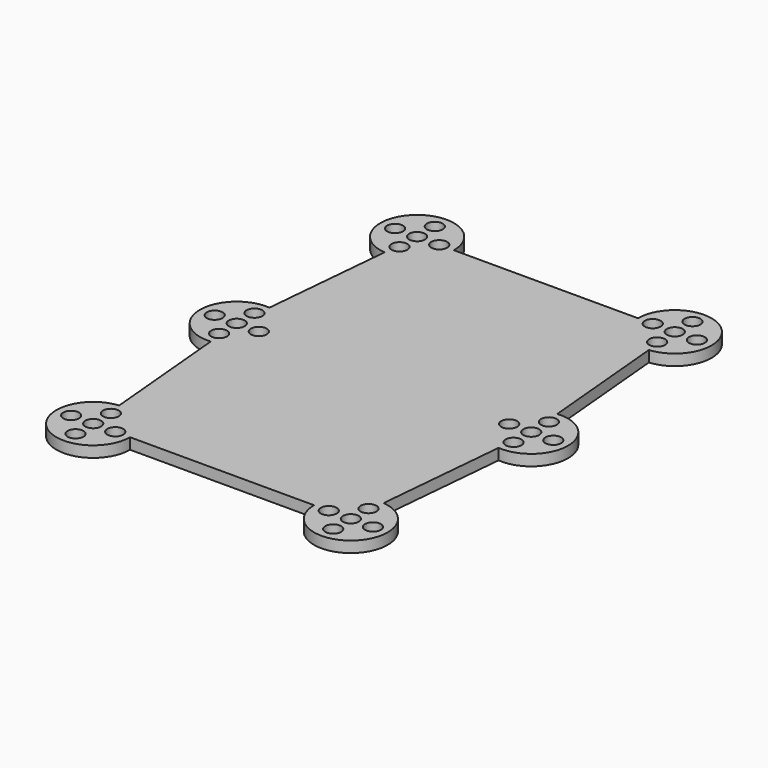
from build123d import *

# Parameters (mm, degrees)
F0_R     = 2.15
F1_DEPTH = 3


with BuildPart() as f1:
    # F0 (on Top) → F1 (new body)
    with BuildSketch(Plane.XY):
        with BuildLine():
            Line((25, 55), (-25, 55))
            ThreePointArc((-25, 55), (-41.743383, 62.384226), (-35.905357, 45.041068))
            Line((-35.905357, 45.041068), (-39.094643, 9.958932))
            ThreePointArc((-39.094643, 9.958932), (-50, 0), (-39.094643, -9.958932))
            Line((-39.094643, -9.958932), (-35.905357, -45.041068))
            ThreePointArc((-35.905357, -45.041068), (-41.743383, -62.384226), (-25, -55))
            Line((-25, -55), (25, -55))
            ThreePointArc((25, -55), (41.743383, -62.384226), (35.905357, -45.041068))
            Line((35.905357, -45.041068), (39.094643, -9.958932))
            ThreePointArc((39.094643, -9.958932), (50, 0), (39.094643, 9.958932))
            Line((39.094643, 9.958932), (35.905357, 45.041068))
            ThreePointArc((35.905357, 45.041068), (41.743383, 62.384226), (25, 55))
        make_face()
        with Locations((-41, -55)):
            Circle(F0_R, mode=Mode.SUBTRACT)
        with Locations((-35, -61)):
            Circle(F0_R, mode=Mode.SUBTRACT)
        with Locations((-35, -55)):
            Circle(F0_R, mode=Mode.SUBTRACT)
        with Locations((-35, -49)):
            Circle(F0_R, mode=Mode.SUBTRACT)
        with Locations((-29, -55)):
            Circle(F0_R, mode=Mode.SUBTRACT)
        with Locations((-40, -6)):
            Circle(F0_R, mode=Mode.SUBTRACT)
        with Locations((35, -61)):
            Circle(F0_R, mode=Mode.SUBTRACT)
        with Locations((29, -55)):
            Circle(F0_R, mode=Mode.SUBTRACT)
        with Locations((35, -55)):
            Circle(F0_R, mode=Mode.SUBTRACT)
        with Locations((35, -49)):
            Circle(F0_R, mode=Mode.SUBTRACT)
        with Locations((41, -55)):
            Circle(F0_R, mode=Mode.SUBTRACT)
        with Locations((40, -6)):
            Circle(F0_R, mode=Mode.SUBTRACT)
        with Locations((-46, 0)):
            Circle(F0_R, mode=Mode.SUBTRACT)
        with Locations((-40, 0)):
            Circle(F0_R, mode=Mode.SUBTRACT)
        with Locations((-40, 6)):
            Circle(F0_R, mode=Mode.SUBTRACT)
        with Locations((-34, 0)):
            Circle(F0_R, mode=Mode.SUBTRACT)
        with Locations((-41, 55)):
            Circle(F0_R, mode=Mode.SUBTRACT)
        with Locations((-35, 49)):
            Circle(F0_R, mode=Mode.SUBTRACT)
        with Locations((-35, 55)):
            Circle(F0_R, mode=Mode.SUBTRACT)
        with Locations((-29, 55)):
            Circle(F0_R, mode=Mode.SUBTRACT)
        with Locations((-35, 61)):
            Circle(F0_R, mode=Mode.SUBTRACT)
        with Locations((34, 0)):
            Circle(F0_R, mode=Mode.SUBTRACT)
        with Locations((40, 0)):
            Circle(F0_R, mode=Mode.SUBTRACT)
        with Locations((40, 6)):
            Circle(F0_R, mode=Mode.SUBTRACT)
        with Locations((46, 0)):
            Circle(F0_R, mode=Mode.SUBTRACT)
        with Locations((29, 55)):
            Circle(F0_R, mode=Mode.SUBTRACT)
        with Locations((35, 49)):
            Circle(F0_R, mode=Mode.SUBTRACT)
        with Locations((35, 55)):
            Circle(F0_R, mode=Mode.SUBTRACT)
        with Locations((35, 61)):
            Circle(F0_R, mode=Mode.SUBTRACT)
        with Locations((41, 55)):
            Circle(F0_R, mode=Mode.SUBTRACT)
        with BuildLine():
            Line((25, 55), (-25, 55))
            ThreePointArc((-25, 55), (-41.743383, 62.384226), (-35.905357, 45.041068))
            Line((-35.905357, 45.041068), (-39.094643, 9.958932))
            ThreePointArc((-39.094643, 9.958932), (-50, 0), (-39.094643, -9.958932))
            Line((-39.094643, -9.958932), (-35.905357, -45.041068))
            ThreePointArc((-35.905357, -45.041068), (-41.743383, -62.384226), (-25, -55))
            Line((-25, -55), (25, -55))
            ThreePointArc((25, -55), (41.743383, -62.384226), (35.905357, -45.041068))
            Line((35.905357, -45.041068), (39.094643, -9.958932))
            ThreePointArc((39.094643, -9.958932), (50, 0), (39.094643, 9.958932))
            Line((39.094643, 9.958932), (35.905357, 45.041068))
            ThreePointArc((35.905357, 45.041068), (41.743383, 62.384226), (25, 55))
        make_face()
        with Locations((-41, -55)):
            Circle(F0_R, mode=Mode.SUBTRACT)
        with Locations((-35, -61)):
            Circle(F0_R, mode=Mode.SUBTRACT)
        with Locations((-35, -55)):
            Circle(F0_R, mode=Mode.SUBTRACT)
        with Locations((-35, -49)):
            Circle(F0_R, mode=Mode.SUBTRACT)
        with Locations((-29, -55)):
            Circle(F0_R, mode=Mode.SUBTRACT)
        with Locations((-40, -6)):
            Circle(F0_R, mode=Mode.SUBTRACT)
        with Locations((35, -61)):
            Circle(F0_R, mode=Mode.SUBTRACT)
        with Locations((29, -55)):
            Circle(F0_R, mode=Mode.SUBTRACT)
        with Locations((35, -55)):
            Circle(F0_R, mode=Mode.SUBTRACT)
        with Locations((35, -49)):
            Circle(F0_R, mode=Mode.SUBTRACT)
        with Locations((41, -55)):
            Circle(F0_R, mode=Mode.SUBTRACT)
        with Locations((40, -6)):
            Circle(F0_R, mode=Mode.SUBTRACT)
        with Locations((-46, 0)):
            Circle(F0_R, mode=Mode.SUBTRACT)
        with Locations((-40, 0)):
            Circle(F0_R, mode=Mode.SUBTRACT)
        with Locations((-40, 6)):
            Circle(F0_R, mode=Mode.SUBTRACT)
        with Locations((-34, 0)):
            Circle(F0_R, mode=Mode.SUBTRACT)
        with Locations((-41, 55)):
            Circle(F0_R, mode=Mode.SUBTRACT)
        with Locations((-35, 49)):
            Circle(F0_R, mode=Mode.SUBTRACT)
        with Locations((-35, 55)):
            Circle(F0_R, mode=Mode.SUBTRACT)
        with Locations((-29, 55)):
            Circle(F0_R, mode=Mode.SUBTRACT)
        with Locations((-35, 61)):
            Circle(F0_R, mode=Mode.SUBTRACT)
        with Locations((34, 0)):
            Circle(F0_R, mode=Mode.SUBTRACT)
        with Locations((40, 0)):
            Circle(F0_R, mode=Mode.SUBTRACT)
        with Locations((40, 6)):
            Circle(F0_R, mode=Mode.SUBTRACT)
        with Locations((46, 0)):
            Circle(F0_R, mode=Mode.SUBTRACT)
        with Locations((29, 55)):
            Circle(F0_R, mode=Mode.SUBTRACT)
        with Locations((35, 49)):
            Circle(F0_R, mode=Mode.SUBTRACT)
        with Locations((35, 55)):
            Circle(F0_R, mode=Mode.SUBTRACT)
        with Locations((35, 61)):
            Circle(F0_R, mode=Mode.SUBTRACT)
        with Locations((41, 55)):
            Circle(F0_R, mode=Mode.SUBTRACT)
    extrude(amount=F1_DEPTH)


solid = f1.part
